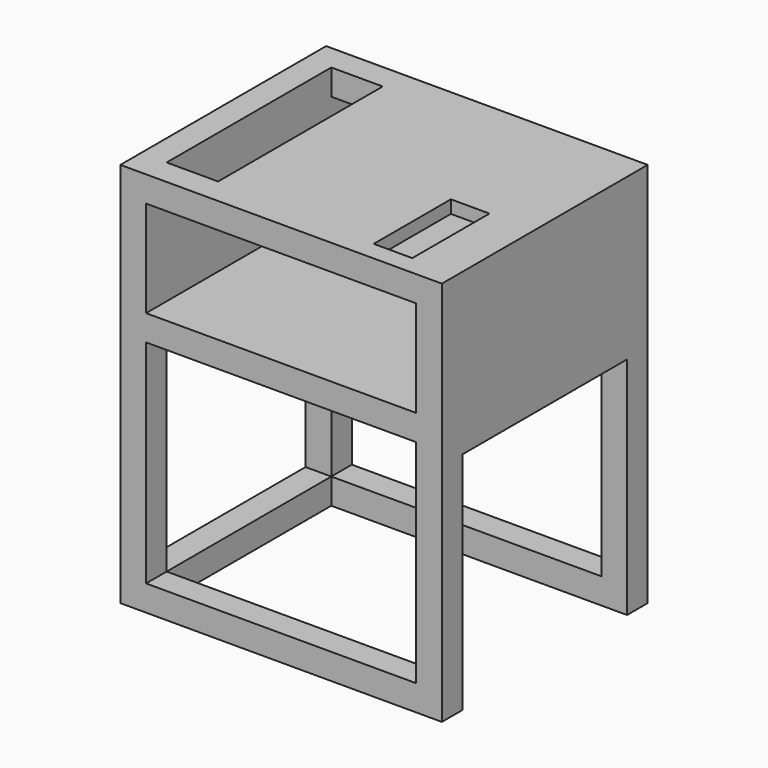
from build123d import *

# Parameters (mm, degrees)
F0_W      = 500
F0_H      = 600
F1_DEPTH  = 400
F3_W      = 80
F3_H      = 320
F4_DEPTH  = 200
F5_W      = 420
F5_H      = 520
F6_DEPTH  = 400
F7_W      = 400
F7_H      = 40
F8_DEPTH  = 420
F9_W      = 60
F9_H      = 150
F10_DEPTH = 20
F11_W     = 320
F11_H     = 350
F12_DEPTH = 625
F13_W     = 40
F13_H     = 40
F14_DEPTH = 325


with BuildPart() as f1:
    # F0 (on Front) → F1 (new body)
    with BuildSketch(Plane.XZ):
        with Locations((250, 300)):
            Rectangle(F0_W, F0_H)
    extrude(amount=F1_DEPTH)

    # F3 (on face) → F4 (cut)
    with BuildSketch(Plane.XY.offset(600)):
        with Locations((80, -200)):
            Rectangle(F3_W, F3_H)
    extrude(amount=-F4_DEPTH, mode=Mode.SUBTRACT)

    # F5 (on face) → F6 (cut)
    with BuildSketch(Plane.XZ.offset(400)):
        with Locations((250, 300)):
            Rectangle(F5_W, F5_H)
    extrude(amount=-F6_DEPTH, mode=Mode.SUBTRACT)

    # F7 (on face) → F8 (join)
    with BuildSketch(Plane(origin=(460, 0, 0), x_dir=(0, -1, 0), z_dir=(-1, 0, 0))):
        with Locations((200, 390)):
            Rectangle(F7_W, F7_H)
    extrude(amount=F8_DEPTH)

    # F9 (on face) → F10 (cut)
    with BuildSketch(Plane.XY.offset(600)):
        with Locations((400, -295)):
            Rectangle(F9_W, F9_H)
    extrude(amount=-F10_DEPTH, mode=Mode.SUBTRACT)

    # F11 (on face) → F12 (cut)
    with BuildSketch(Plane.YZ.offset(500)):
        with Locations((-200, 175)):
            Rectangle(F11_W, F11_H)
    extrude(amount=-F12_DEPTH, mode=Mode.SUBTRACT)

    # F13 (on face) → F14 (join)
    with BuildSketch(Plane.XZ.offset(40)):
        with Locations((20, 20)):
            Rectangle(F13_W, F13_H)
    extrude(amount=F14_DEPTH)


solid = f1.part
